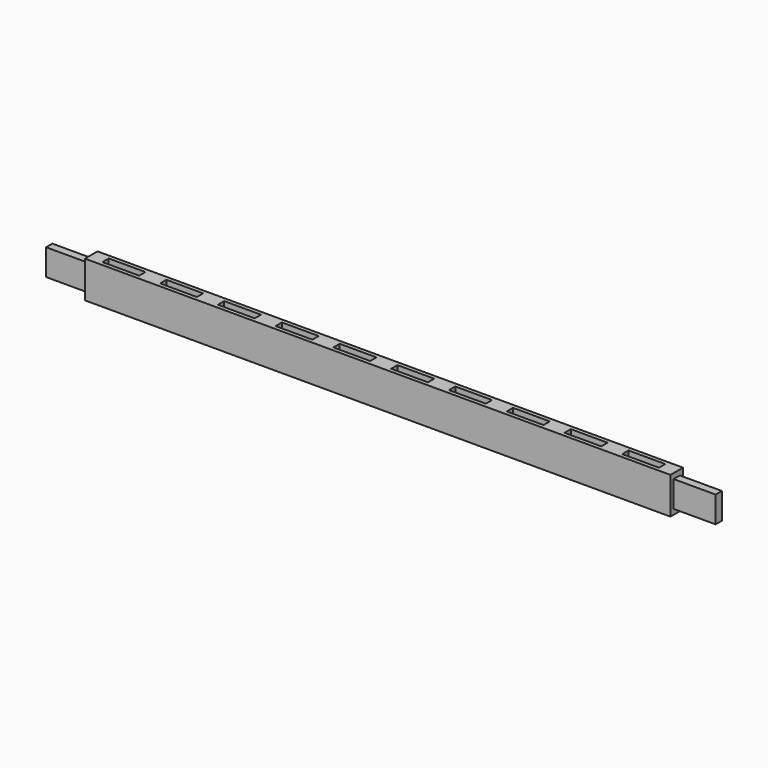
from build123d import *

# Parameters (mm, degrees)
F0_W     = 38.1
F0_H     = 88.9
F1_DEPTH = 1416.05
F2_W     = 19.05
F2_H     = 63.5
F3_DEPTH = 101.6
F4_W     = 19.05
F4_H     = 63.5
F5_DEPTH = 101.6
F6_W     = 88.9
F6_H     = 19.05
F7_DEPTH = 19.05


with BuildPart() as f1:
    # F0 (on Right) → F1 (new body)
    with BuildSketch(Plane.YZ):
        Rectangle(F0_W, F0_H)
    extrude(amount=F1_DEPTH)

    # F2 (on face) → F3 (join)
    with BuildSketch(Plane.YZ.offset(1416.05)):
        Rectangle(F2_W, F2_H)
    extrude(amount=F3_DEPTH)

    # F4 (on face) → F5 (join)
    with BuildSketch(Plane(origin=(0, 0, 0), x_dir=(0, -1, 0), z_dir=(-1, 0, 0))):
        Rectangle(F4_W, F4_H)
    extrude(amount=F5_DEPTH)

    # F6 (on face) → F7 (cut)
    with BuildSketch(Plane.XY.offset(44.45)):
        with Locations((78.994, 0)):
            Rectangle(F6_W, F6_H)
        with Locations((218.694, 0)):
            Rectangle(F6_W, F6_H)
        with Locations((358.394, 0)):
            Rectangle(F6_W, F6_H)
        with Locations((498.094, 0)):
            Rectangle(F6_W, F6_H)
        with Locations((637.794, 0)):
            Rectangle(F6_W, F6_H)
        with Locations((777.494, 0)):
            Rectangle(F6_W, F6_H)
        with Locations((917.194, 0)):
            Rectangle(F6_W, F6_H)
        with Locations((1056.894, 0)):
            Rectangle(F6_W, F6_H)
        with Locations((1196.594, 0)):
            Rectangle(F6_W, F6_H)
        with Locations((1336.294, 0)):
            Rectangle(F6_W, F6_H)
    extrude(amount=-F7_DEPTH, mode=Mode.SUBTRACT)


solid = f1.part
